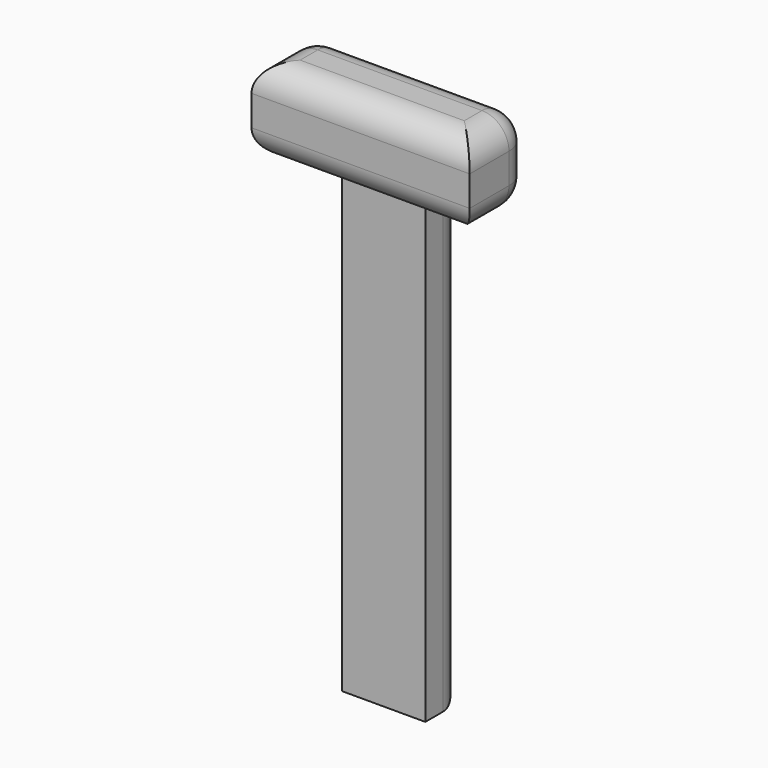
from build123d import *

# Parameters (mm, degrees)
F0_W     = 5.288299
F0_H     = 29.085644
F1_DEPTH = 3.10534
F3_DEPTH = 4.83128
F4_R     = 1.714961


with BuildPart() as f1:
    # F0 (on Front) → F1 (new body)
    with BuildSketch(Plane.XZ):
        with Locations((-9.695214, 14.542822)):
            Rectangle(F0_W, F0_H)
    extrude(amount=F1_DEPTH)

    # F2 (on Front) → F3 (join)
    with BuildSketch(Plane.XZ):
        Polygon((-16.712353, 29.071761), (-12.286842, 29.071761), (-7.046107, 29.071761), (-2.853518, 29.071761), (-2.853518, 34.428958), (-16.712353, 34.428958), align=None)
    extrude(amount=F3_DEPTH)

    # F4
    f4_edges = [f1.edges().sort_by_distance(p)[0] for p in [
        (-16.712353, -2.41564, 34.428958),
        (-16.712353, -2.41564, 29.071761),
        (-2.853518, -2.41564, 34.428958),
        (-9.782935, -4.83128, 29.071761),
        (-2.853518, -2.41564, 29.071761),
        (-9.782935, -4.83128, 34.428958),
        (-16.712353, 0, 31.75036),
        (-14.525858, 0, 29.071761),
        (-12.339364, 0, 14.535881),
        (-9.695214, 0, 0),
        (-7.051065, 0, 14.535881),
        (-4.952291, 0, 29.071761),
        (-2.853518, 0, 31.75036),
        (-9.782935, 0, 34.428958),
    ]]
    fillet(f4_edges, radius=F4_R)


solid = f1.part
